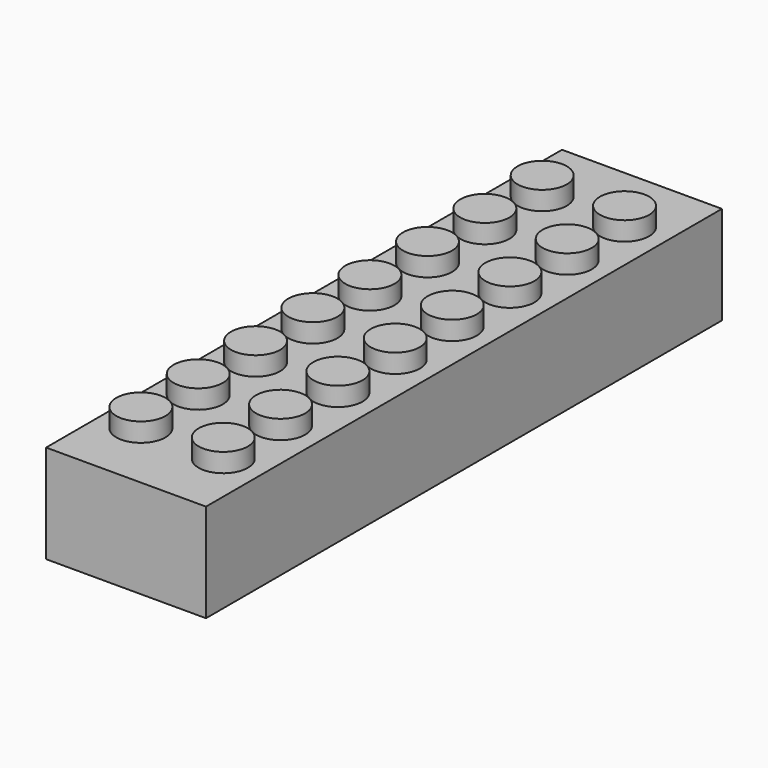
from build123d import *

# Parameters (mm, degrees)
F0_W     = 15.8
F0_H     = 63.72
F0_R     = 2.43
F1_DEPTH = 9.71
F2_DEPTH = 1.86


with BuildPart() as f1:
    # F0 (on Top) → F1 (new body)
    with BuildSketch(Plane.XY):
        with Locations((-51.7484200151, -3.5033859313)):
            Rectangle(F0_W, F0_H)
        with Locations((-55.9428147972, -28.2833859313)):
            Circle(F0_R, mode=Mode.SUBTRACT)
        with Locations((-55.9428147972, -21.2033859313)):
            Circle(F0_R, mode=Mode.SUBTRACT)
        with Locations((-55.9428147972, -14.1233859313)):
            Circle(F0_R, mode=Mode.SUBTRACT)
        with Locations((-55.9428147972, -7.0433859313)):
            Circle(F0_R, mode=Mode.SUBTRACT)
        with Locations((-47.8049702942, -28.2833859313)):
            Circle(F0_R, mode=Mode.SUBTRACT)
        with Locations((-47.8049702942, -21.2033859313)):
            Circle(F0_R, mode=Mode.SUBTRACT)
        with Locations((-47.8049702942, -14.1233859313)):
            Circle(F0_R, mode=Mode.SUBTRACT)
        with Locations((-47.8049702942, -7.0433859313)):
            Circle(F0_R, mode=Mode.SUBTRACT)
        with Locations((-55.9428147972, 0)):
            Circle(F0_R, mode=Mode.SUBTRACT)
        with Locations((-55.9428147972, 7.1166140687)):
            Circle(F0_R, mode=Mode.SUBTRACT)
        with Locations((-55.9428147972, 14.1966140687)):
            Circle(F0_R, mode=Mode.SUBTRACT)
        with Locations((-55.9428147972, 21.2766140687)):
            Circle(F0_R, mode=Mode.SUBTRACT)
        with Locations((-47.8049702942, 0)):
            Circle(F0_R, mode=Mode.SUBTRACT)
        with Locations((-47.8049702942, 7.1166140687)):
            Circle(F0_R, mode=Mode.SUBTRACT)
        with Locations((-47.8049702942, 14.1966140687)):
            Circle(F0_R, mode=Mode.SUBTRACT)
        with Locations((-47.8049702942, 21.2766140687)):
            Circle(F0_R, mode=Mode.SUBTRACT)
        with Locations((-55.9428147972, 21.2766140687)):
            Circle(F0_R)
        with Locations((-55.9428147972, 14.1966140687)):
            Circle(F0_R)
        with Locations((-55.9428147972, 7.1166140687)):
            Circle(F0_R)
        with Locations((-55.9428147972, 0)):
            Circle(F0_R)
        with Locations((-55.9428147972, -7.0433859313)):
            Circle(F0_R)
        with Locations((-55.9428147972, -14.1233859313)):
            Circle(F0_R)
        with Locations((-55.9428147972, -21.2033859313)):
            Circle(F0_R)
        with Locations((-55.9428147972, -28.2833859313)):
            Circle(F0_R)
        with Locations((-47.8049702942, -28.2833859313)):
            Circle(F0_R)
        with Locations((-47.8049702942, -21.2033859313)):
            Circle(F0_R)
        with Locations((-47.8049702942, -14.1233859313)):
            Circle(F0_R)
        with Locations((-47.8049702942, -7.0433859313)):
            Circle(F0_R)
        with Locations((-47.8049702942, 0)):
            Circle(F0_R)
        with Locations((-47.8049702942, 7.1166140687)):
            Circle(F0_R)
        with Locations((-47.8049702942, 14.1966140687)):
            Circle(F0_R)
        with Locations((-47.8049702942, 21.2766140687)):
            Circle(F0_R)
    extrude(amount=-F1_DEPTH)

    # F0 (on Top) → F2 (join)
    with BuildSketch(Plane.XY):
        with Locations((-55.9428147972, 21.2766140687)):
            Circle(F0_R)
        with Locations((-55.9428147972, 14.1966140687)):
            Circle(F0_R)
        with Locations((-55.9428147972, 7.1166140687)):
            Circle(F0_R)
        with Locations((-55.9428147972, 0)):
            Circle(F0_R)
        with Locations((-55.9428147972, -7.0433859313)):
            Circle(F0_R)
        with Locations((-55.9428147972, -14.1233859313)):
            Circle(F0_R)
        with Locations((-55.9428147972, -21.2033859313)):
            Circle(F0_R)
        with Locations((-55.9428147972, -28.2833859313)):
            Circle(F0_R)
        with Locations((-47.8049702942, -28.2833859313)):
            Circle(F0_R)
        with Locations((-47.8049702942, -21.2033859313)):
            Circle(F0_R)
        with Locations((-47.8049702942, -14.1233859313)):
            Circle(F0_R)
        with Locations((-47.8049702942, -7.0433859313)):
            Circle(F0_R)
        with Locations((-47.8049702942, 0)):
            Circle(F0_R)
        with Locations((-47.8049702942, 7.1166140687)):
            Circle(F0_R)
        with Locations((-47.8049702942, 14.1966140687)):
            Circle(F0_R)
        with Locations((-47.8049702942, 21.2766140687)):
            Circle(F0_R)
    extrude(amount=F2_DEPTH)


solid = f1.part
